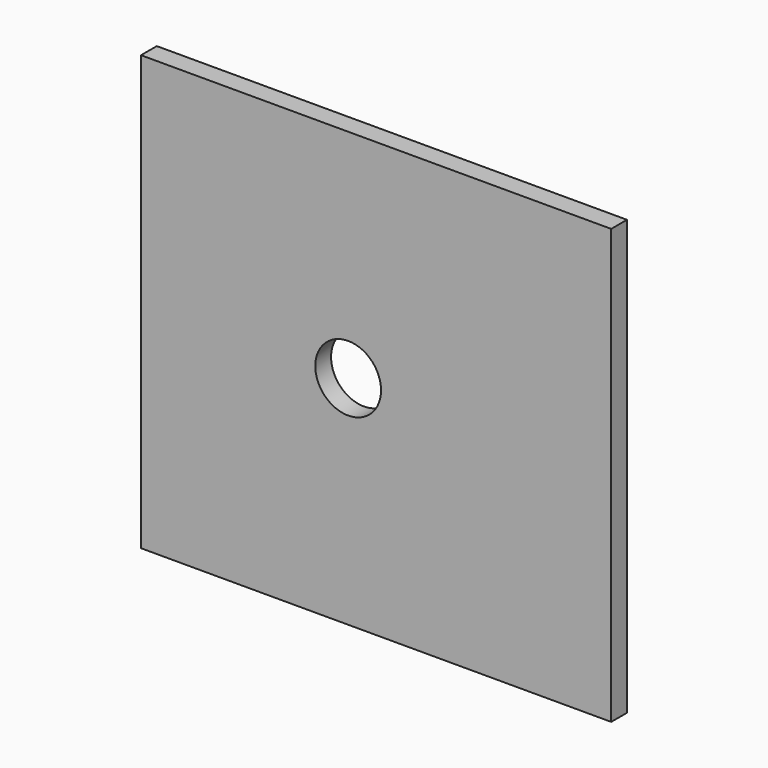
from build123d import *

# Parameters (mm, degrees)
F1_DEPTH = 6
F2_R     = 10
F3_DEPTH = 6.001


with BuildPart() as f1:
    # F0 (on Front) → F1 (new body)
    with BuildSketch(Plane.XZ):
        Polygon((80, 66), (0, 66), (-63, 66), (-63, -66), (0, -66), (80, -66), align=None)
    extrude(amount=F1_DEPTH)

    # F2 (on face) → F3 (cut, through all)
    with BuildSketch(Plane.XZ.offset(6)):
        Circle(F2_R)
    extrude(amount=-F3_DEPTH, mode=Mode.SUBTRACT)


solid = f1.part
